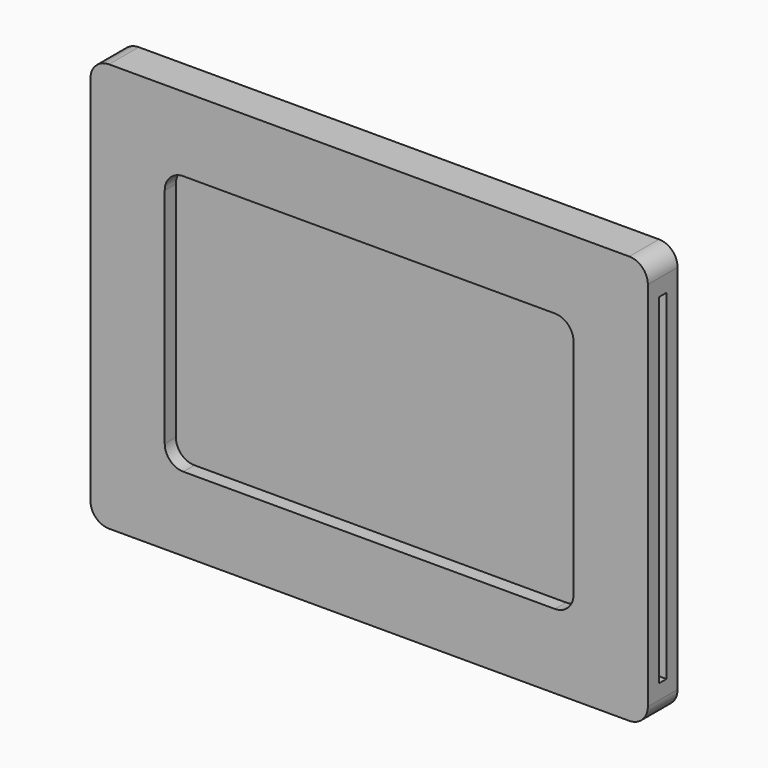
from build123d import *

# Parameters (mm, degrees)
F0_W     = 141
F0_H     = 91.5
F0_W_2   = 110
F0_H_2   = 70
F1_DEPTH = 5
F2_DEPTH = 1.25
F3_DEPTH = 5.001
F4_R     = 5
F5_R     = 5


with BuildPart() as f1:
    # F0 (on Front) → F1 (new body, symmetric)
    with BuildSketch(Plane.XZ):
        Polygon((75, 45.5), (75, 55), (-75, 55), (-75, -55), (75, -55), (75, -46), (-66, -46), (-66, 45.5), align=None)
        with Locations((4.5, -0.25)):
            Rectangle(F0_W, F0_H)
        Rectangle(F0_W_2, F0_H_2, mode=Mode.SUBTRACT)
        Rectangle(F0_W_2, F0_H_2)
    extrude(amount=F1_DEPTH, both=True)

    # F0 (on Front) → F2 (cut, symmetric)
    with BuildSketch(Plane.XZ):
        with Locations((4.5, -0.25)):
            Rectangle(F0_W, F0_H)
        Rectangle(F0_W_2, F0_H_2, mode=Mode.SUBTRACT)
        Rectangle(F0_W_2, F0_H_2)
    extrude(amount=F2_DEPTH, both=True, mode=Mode.SUBTRACT)

    # F0 (on Front) → F3 (cut, through all)
    with BuildSketch(Plane.XZ):
        Rectangle(F0_W_2, F0_H_2)
    extrude(amount=F3_DEPTH, mode=Mode.SUBTRACT)

    # F4
    f4_edges = [f1.edges().sort_by_distance(p)[0] for p in [
        (-75, 0, 55),
        (75, 0, 55),
        (75, 0, -55),
        (-75, 0, -55),
    ]]
    fillet(f4_edges, radius=F4_R)

    # F5
    f5_edges = [f1.edges().sort_by_distance(p)[0] for p in [
        (-55, -3.125, 35),
        (55, -3.125, 35),
        (55, -3.125, -35),
        (-55, -3.125, -35),
    ]]
    fillet(f5_edges, radius=F5_R)


solid = f1.part
